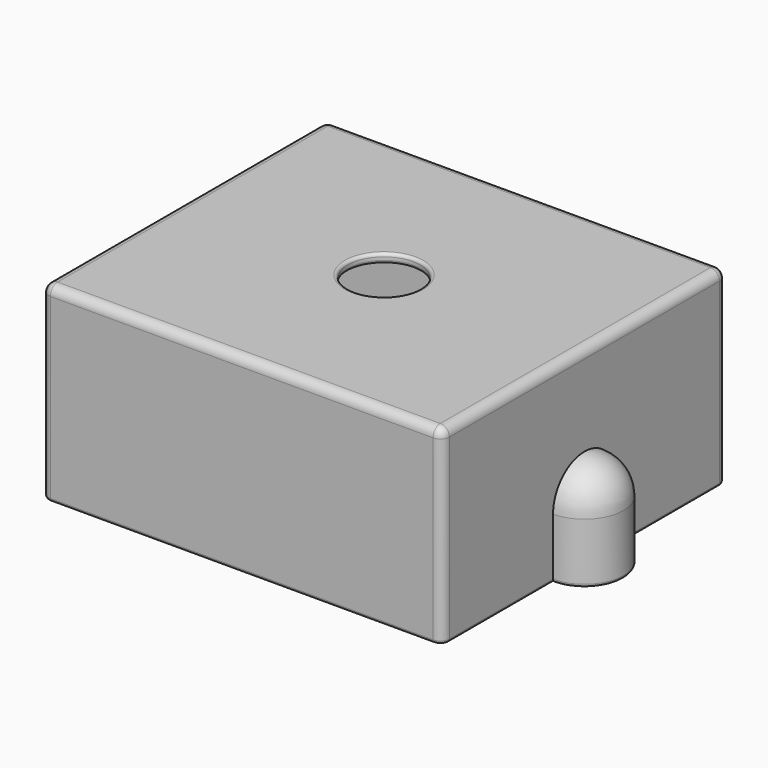
from build123d import *

# Parameters (mm, degrees)
SKETCH006_W      = 63.5
SKETCH006_H      = 56
PAD004_DEPTH     = 30
THICKNESS001_T   = 1.5
SKETCH007_W      = 2
SKETCH007_H      = 5
PAD005_DEPTH     = 10
FILLET002_R      = 0.75
REVOLUTION_ANGLE = 180
POCKET001_DEPTH  = 1.5
SKETCH019_R      = 6
POCKET007_DEPTH  = 1.5
FILLET003_R      = 0.5


with BuildPart() as part:
    # Sketch006 → Pad004 (new body)
    with BuildSketch(Plane.XY.offset(85)):
        Rectangle(SKETCH006_W, SKETCH006_H)
    extrude(amount=-PAD004_DEPTH)

    # Thickness001
    thickness001_openings = [part.faces().sort_by_distance(p)[0] for p in [
        (0, 0, 55),
    ]]
    offset(amount=THICKNESS001_T, openings=thickness001_openings)

    # Sketch007 (on Face5 of Thickness001) → Pad005 (join)
    with BuildSketch(Plane(origin=(0, 0, 85), x_dir=(1, 0, 0), z_dir=(0, 0, -1))):
        with Locations((-9.45, 25.5)):
            Rectangle(SKETCH007_W, SKETCH007_H)
        with Locations((-13.45, -25.5)):
            Rectangle(SKETCH007_W, SKETCH007_H)
        with Locations((-13.45, 25.5)):
            Rectangle(SKETCH007_W, SKETCH007_H)
        Polygon((7.25, 16), (9.25, 16), (9.25, 21), (11.25, 21), (11.25, 16), (13.25, 16), (13.25, 28), (7.25, 28), align=None)
        Polygon((7.25, -16), (9.25, -16), (9.25, -21), (11.25, -21), (11.25, -16), (13.25, -16), (13.25, -28), (7.25, -28), align=None)
        with Locations((-9.45, -25.5)):
            Rectangle(SKETCH007_W, SKETCH007_H)
    extrude(amount=PAD005_DEPTH)

    # Fillet002
    fillet002_edges = [part.edges().sort_by_distance(p)[0] for p in [
        (-14.45, -25.5, 75),
        (-13.45, -23, 75),
        (-12.45, -25.5, 75),
        (-10.45, -25.5, 75),
        (-9.45, -23, 75),
        (-8.45, -25.5, 75),
        (7.25, -22, 75),
        (8.25, -16, 75),
        (9.25, -18.5, 75),
        (10.25, -21, 75),
        (11.25, -18.5, 75),
        (12.25, -16, 75),
        (13.25, -22, 75),
        (13.25, 22, 75),
        (12.25, 16, 75),
        (11.25, 18.5, 75),
        (10.25, 21, 75),
        (9.25, 18.5, 75),
        (8.25, 16, 75),
        (7.25, 22, 75),
        (-8.45, 25.5, 75),
        (-9.45, 23, 75),
        (-10.45, 25.5, 75),
        (-13.45, 23, 75),
        (-12.45, 25.5, 75),
        (-14.45, 25.5, 75),
        (-14.45, -23, 80),
        (-12.45, -23, 80),
        (-10.45, -23, 80),
        (-8.45, -23, 80),
        (7.25, -16, 80),
        (9.25, -16, 80),
        (11.25, -16, 80),
        (13.25, -16, 80),
        (13.25, 16, 80),
        (11.25, 16, 80),
        (9.25, 16, 80),
        (7.25, 16, 80),
        (-8.45, 23, 80),
        (-10.45, 23, 80),
        (-12.45, 23, 80),
        (-14.45, 23, 80),
    ]]
    fillet(fillet002_edges, radius=FILLET002_R)

    # Sketch008 (on Face61 of Fillet002) → Revolution (revolve)
    with BuildSketch(Plane.YZ.offset(33.25)):
        with BuildLine():
            Line((-6.5, 55), (-5, 55))
            Line((-5, 55), (-5, 65))
            ThreePointArc((0, 70), (-3.535534, 68.535534), (-5, 65))
            Line((0, 71.5), (0, 70))
            ThreePointArc((0, 71.5), (-4.596194, 69.596194), (-6.5, 65))
            Line((-6.5, 65), (-6.5, 55))
        make_face()
    revolve(axis=Axis((33.25, 0, 0), (0, 0, 1)), revolution_arc=REVOLUTION_ANGLE)

    # Sketch009 (on Face29 of Revolution) → Pocket001 (cut)
    with BuildSketch(Plane(origin=(31.75, 0, 0), x_dir=(0, -1, 0), z_dir=(-1, 0, 0))):
        with BuildLine():
            Line((5, 55), (5, 65))
            ThreePointArc((5, 65), (3.535534, 68.535534), (0, 70))
            ThreePointArc((0, 70), (-3.535542, 68.535526), (-5, 64.999977))
            Line((-5, 55), (-5, 64.999977))
            Line((-5, 55), (5, 55))
        make_face()
    extrude(amount=-POCKET001_DEPTH, mode=Mode.SUBTRACT)

    # Sketch019 → Pocket007 (cut)
    with BuildSketch(Plane.XY.offset(86.5)):
        Circle(SKETCH019_R)
    extrude(amount=-POCKET007_DEPTH, mode=Mode.SUBTRACT)

    # Fillet003
    fillet003_edges = [part.edges().sort_by_distance(p)[0] for p in [
        (31.75, -3.535534, 68.535534),
        (32.5, 0, 70),
        (33.25, -3.535534, 68.535534),
        (32.5, -5, 65),
        (31.75, 3.535542, 68.535526),
        (32.5, 5, 64.999977),
        (33.25, 3.535534, 68.535534),
        (33.25, 17.25, 55),
        (32.81066, 29.06066, 55),
        (39.75, 0, 55),
        (0, 29.5, 55),
        (33.25, -17.25, 55),
        (-32.81066, 29.06066, 55),
        (32.81066, -29.06066, 55),
        (-33.25, 0, 55),
        (0, -29.5, 55),
        (-32.81066, -29.06066, 55),
        (0, 28, 55),
        (31.75, 16.5, 55),
        (32.5, 5, 55),
        (38.25, 0, 55),
        (32.5, -5, 55),
        (31.75, -16.5, 55),
        (0, -28, 55),
        (-31.75, 0, 55),
        (31.75, -5, 60),
        (33.25, -5, 60),
        (31.75, 5, 59.999988),
        (33.25, 5, 59.999988),
        (-6, 0, 86.5),
        (6, 0, 85.75),
        (-6, 0, 85),
    ]]
    fillet(fillet003_edges, radius=FILLET003_R)


with BuildPart() as part_1:
    # Body001 placement: moved
    add(part.part.moved(Location((0, 0, -10))))


solid = part_1.part
